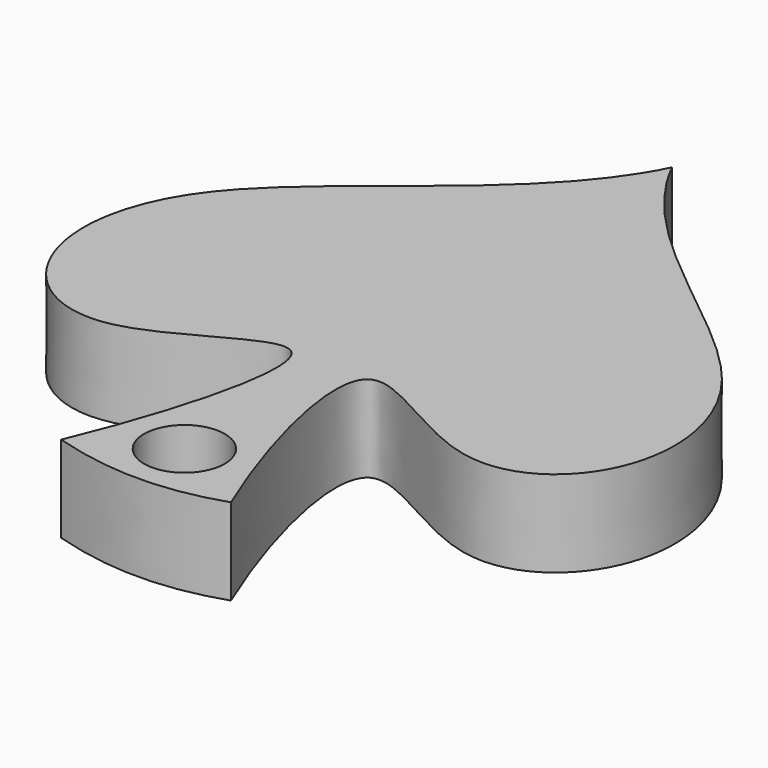
from build123d import *

# Parameters (mm, degrees)
F0_R     = 8.8935333637
F1_DEPTH = 19.05


with BuildPart() as f1:
    # F0 (on Top) → F1 (new body)
    with BuildSketch(Plane.XY):
        with BuildLine():
            add(Edge.make_bspline(
                [(-18.6914314552, -50.6336364965), (-4.5396769419, -54.878089577), (6.9224676117, -54.5178428292), (18.6914314552, -50.6336364965)],
                knots=[0, 0, 0, 0, 37.3828629104, 37.3828629104, 37.3828629104, 37.3828629104], degree=3))
            add(Edge.make_bspline(
                [(18.6914314552, -50.6336364965), (10.2811811013, -30.783680779), (-3.5910259917, 17.9470221051), (39.4528527881, -19.898252894), (67.7445102251, -1.8765492501), (64.9432596574, 44.8268860216), (12.1960477669, 69.2984536768), (0, 94.1165238619)],
                knots=[0, 0, 0, 0, 0.2176028561, 0.3893054124, 0.5436041228, 0.7267701307, 1, 1, 1, 1], degree=3))
            add(Edge.make_bspline(
                [(-18.6914314552, -50.6336364965), (-10.2811811013, -30.783680779), (3.5910259917, 17.9470221051), (-39.4528527881, -19.898252894), (-67.7445102251, -1.8765492501), (-64.9432596574, 44.8268860216), (-12.1960477669, 69.2984536768), (0, 94.1165238619)],
                knots=[0, 0, 0, 0, 0.2176028561, 0.3893054124, 0.5436041228, 0.7267701307, 1, 1, 1, 1], degree=3))
        make_face()
        with Locations((0, -40.0833562016)):
            Circle(F0_R, mode=Mode.SUBTRACT)
    extrude(amount=F1_DEPTH)


solid = f1.part
